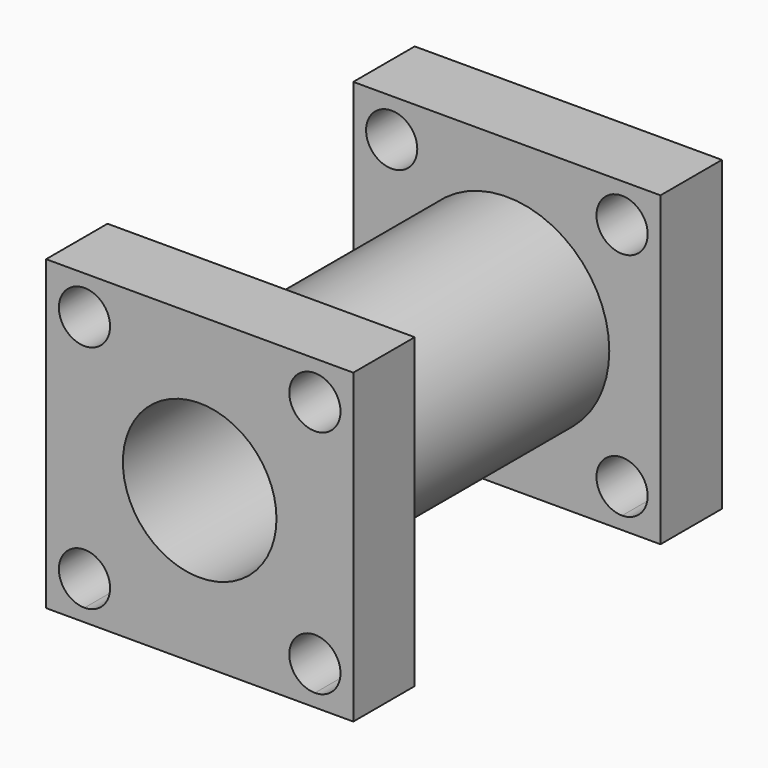
from build123d import *

# Parameters (mm, degrees)
F0_W     = 76.2
F0_H     = 76.2
F1_DEPTH = 19.05
F2_R     = 25.4
F3_DEPTH = 76.2
F4_W     = 76.2
F4_H     = 76.2
F4_R     = 25.4
F5_DEPTH = 19.05
F6_R     = 19.05
F7_DEPTH = 114.3
F9_DEPTH = 127


with BuildPart() as f1:
    # F0 (on Front) → F1 (new body)
    with BuildSketch(Plane.XZ):
        Rectangle(F0_W, F0_H)
    extrude(amount=F1_DEPTH)

    # F2 (on face) → F3 (join)
    with BuildSketch(Plane.XZ.offset(19.05)):
        Circle(F2_R)
    extrude(amount=F3_DEPTH)

    # F4 (on face) → F5 (join)
    with BuildSketch(Plane.XZ.offset(95.25)):
        Rectangle(F4_W, F4_H)
        Circle(F4_R, mode=Mode.SUBTRACT)
        Circle(F4_R)
    extrude(amount=F5_DEPTH)

    # F6 (on face) → F7 (cut)
    with BuildSketch(Plane.XZ.offset(114.3)):
        Circle(F6_R)
    extrude(amount=-F7_DEPTH, mode=Mode.SUBTRACT)

    # F8 (on face) → F9 (cut)
    with BuildSketch(Plane.XZ.offset(114.3)):
        with BuildLine():
            ThreePointArc((-22.225, 28.575), (-24.0848719395, 33.0651280605), (-28.575, 34.925))
            ThreePointArc((-28.575, 34.925), (-33.0651280605, 24.0848719395), (-22.225, 28.575))
        make_face()
        with BuildLine():
            ThreePointArc((-22.225, -28.575), (-33.0651280605, -24.0848719395), (-28.575, -34.925))
            ThreePointArc((-28.575, -34.925), (-24.0848719395, -33.0651280605), (-22.225, -28.575))
        make_face()
        with BuildLine():
            ThreePointArc((34.925, -28.575), (24.0848719395, -24.0848719395), (28.575, -34.925))
            ThreePointArc((28.575, -34.925), (33.0651280605, -33.0651280605), (34.925, -28.575))
        make_face()
        with BuildLine():
            ThreePointArc((34.925, 28.575), (33.0651280605, 33.0651280605), (28.575, 34.925))
            ThreePointArc((28.575, 34.925), (24.0848719395, 24.0848719395), (34.925, 28.575))
        make_face()
    extrude(amount=-F9_DEPTH, mode=Mode.SUBTRACT)


solid = f1.part
